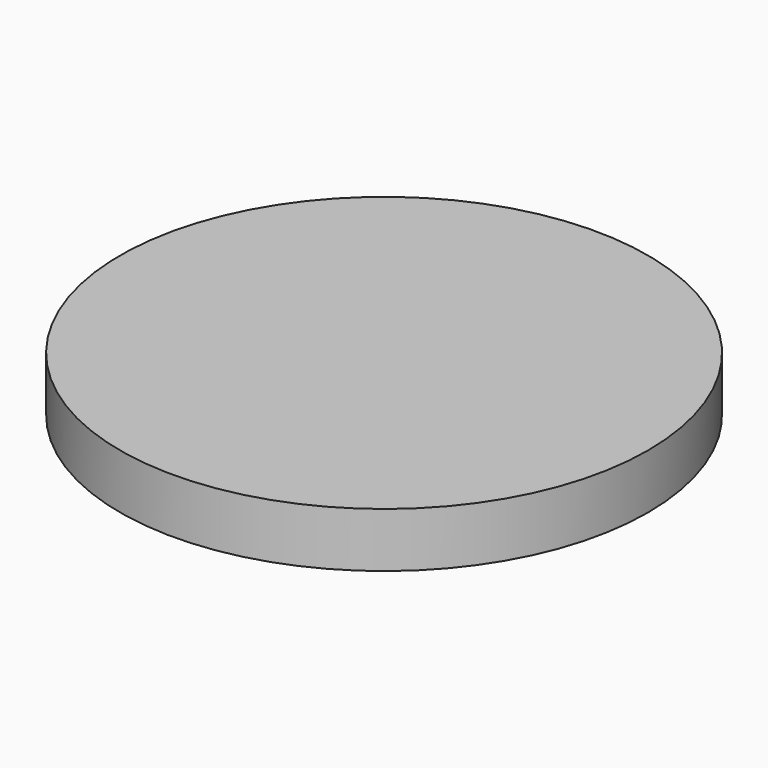
from build123d import *

# Parameters (mm, degrees)
F0_R     = 12.261905
F1_DEPTH = 2.54


with BuildPart() as f1:
    # F0 (on Top) → F1 (new body)
    with BuildSketch(Plane.XY):
        with Locations((-35.017412, -44.556551)):
            Circle(F0_R)
    extrude(amount=-F1_DEPTH)


solid = f1.part
